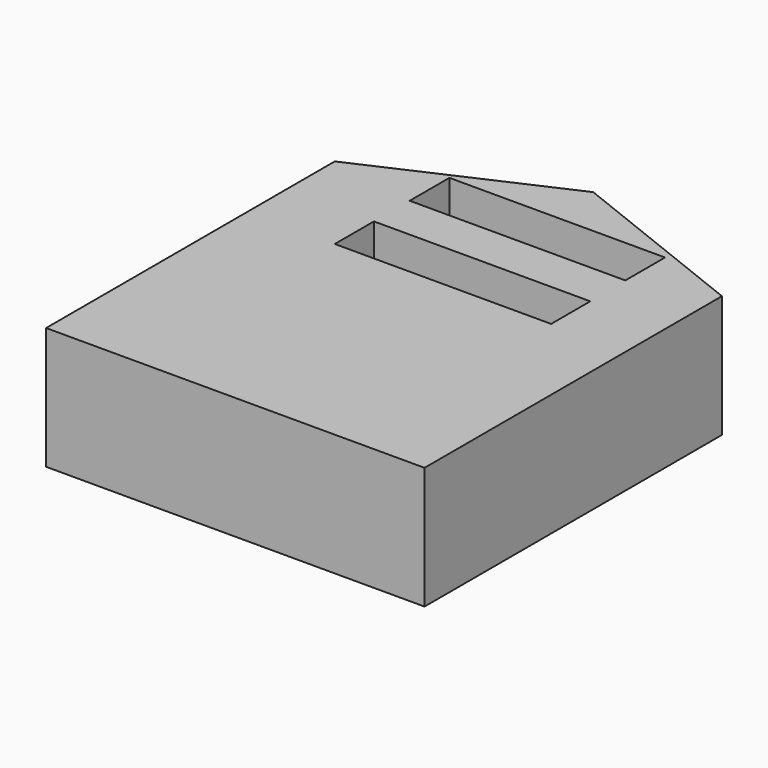
from build123d import *

# Parameters (mm, degrees)
F0_W     = 129.2205303907
F0_H     = 41.7168587446
F1_DEPTH = 152.4
F2_W     = 73.6317485571
F2_H     = 16.954690218
F2_W_2   = 73.8739818335
F2_H_2   = 16.7124718428
F3_DEPTH = 25.4
F5_DEPTH = 41.7178587446


with BuildPart() as f1:
    # F0 (on Front) → F1 (new body)
    with BuildSketch(Plane.XZ):
        with Locations((-0.3052428365, -6.4101442695)):
            Rectangle(F0_W, F0_H)
    extrude(amount=F1_DEPTH)

    # F2 (on face) → F3 (cut)
    with BuildSketch(Plane.XY.offset(14.4482851028)):
        with Locations((1.6954615712, -25.9895175695)):
            Rectangle(F2_W, F2_H)
        with Locations((1.8165782094, -58.0823048949)):
            Rectangle(F2_W_2, F2_H_2)
    extrude(amount=-F3_DEPTH, mode=Mode.SUBTRACT)

    # F4 (on face) → F5 (cut, through all)
    with BuildSketch(Plane.XY.offset(14.4482851028)):
        Polygon((64.3050223589, 0), (0, 0), (64.3050223589, -25.4777166992), align=None)
        Polygon((-64.9155080318, 0), (-64.9155080318, -29.2058624327), (0, 0), align=None)
    extrude(amount=-F5_DEPTH, mode=Mode.SUBTRACT)


solid = f1.part
